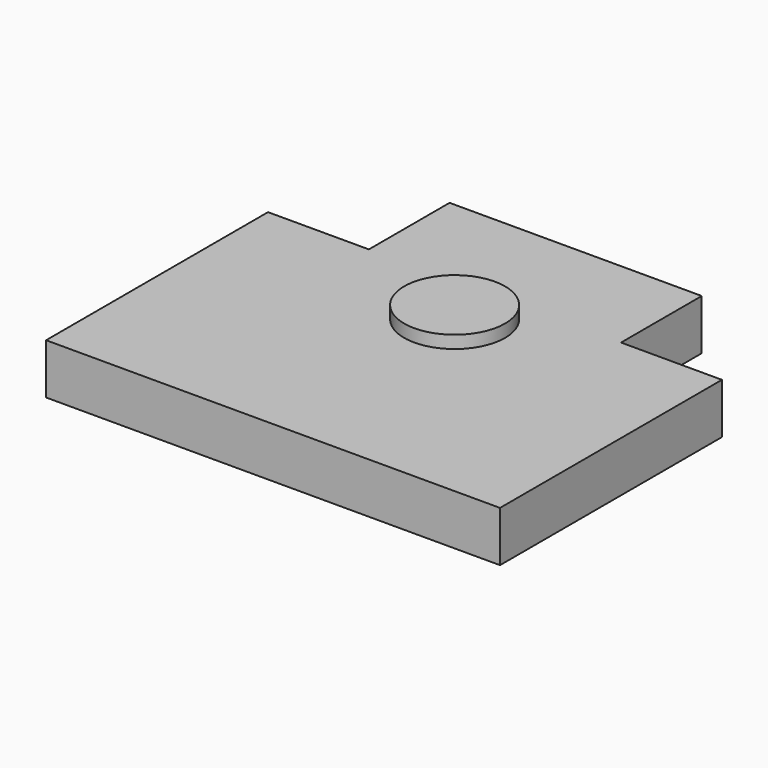
from build123d import *

# Parameters (mm, degrees)
F0_R     = 2
F1_DEPTH = 1
F2_DEPTH = 1.5


with BuildPart() as f1:
    # F0 (on Top) → F1 (new body, symmetric)
    with BuildSketch(Plane.XY):
        Polygon((-9, -9), (9, -9), (9, 2), (5, 2), (5, 6), (-5, 6), (-5, 2), (-9, 2), align=None)
        Circle(F0_R, mode=Mode.SUBTRACT)
    extrude(amount=F1_DEPTH, both=True)

    # F0 (on Top) → F2 (join, symmetric)
    with BuildSketch(Plane.XY):
        Circle(F0_R)
    extrude(amount=F2_DEPTH, both=True)


solid = f1.part
